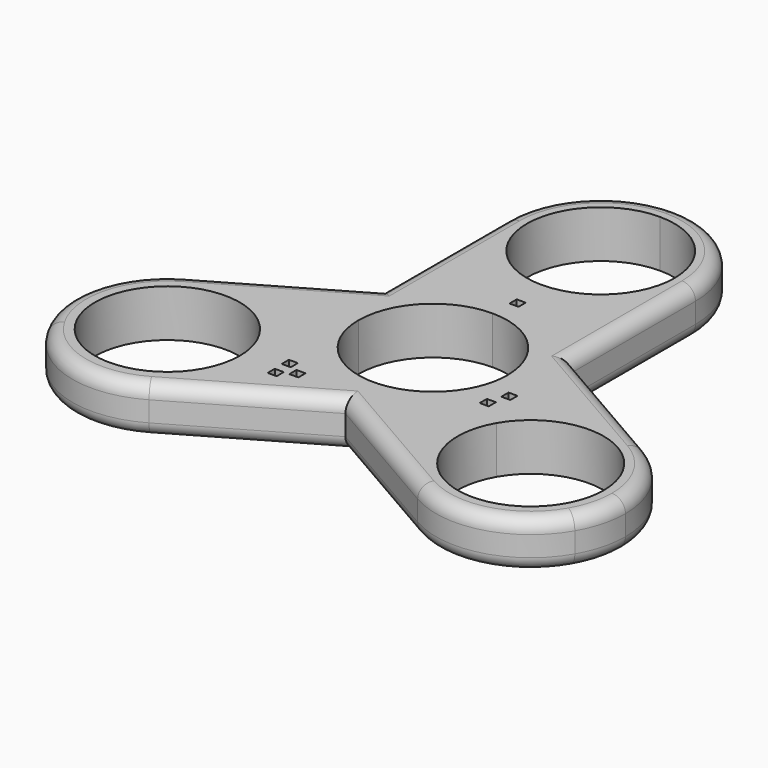
from build123d import *

# Parameters (mm, degrees)
F0_W     = 1.3256371551
F0_H     = 1.3256371551
F1_DEPTH = 7
F2_R     = 2


with BuildPart() as f1:
    # F0 (on Top) → F1 (new body)
    with BuildSketch(Plane.XY):
        with BuildLine():
            Line((0, 20.1), (0, 17))
            ThreePointArc((0, 17), (9.8994949366, 21.1005050634), (14, 31))
            ThreePointArc((14, 31), (9.8994949366, 40.8994949366), (0, 45))
            Line((0, 45), (0, 41.9))
            ThreePointArc((0, 41.9), (7.7074639149, 38.7074639149), (10.9, 31))
            ThreePointArc((10.9, 31), (7.7074639149, 23.2925360851), (0, 20.1))
        make_face()
        with BuildLine():
            ThreePointArc((-14, 31), (-9.8994949366, 21.1005050634), (0, 17))
            Line((0, 17), (0, 20.1))
            ThreePointArc((0, 20.1), (-10.9, 31), (0, 41.9))
            Line((0, 41.9), (0, 45))
            ThreePointArc((0, 45), (-9.8994949366, 40.8994949366), (-14, 31))
        make_face()
        with BuildLine():
            Line((0, 11), (0, 14.1517119482))
            Line((0, 14.1517119482), (0, 15.4773491033))
            Line((0, 15.4773491033), (0, 17))
            ThreePointArc((0, 17), (-9.8994949366, 21.1005050634), (-14, 31))
            Line((-14, 31), (-14, 8.0829037687))
            Line((-14, 8.0829037687), (-14, 0))
            Line((-14, 0), (-11, 0))
            ThreePointArc((-11, 0), (-7.7781745931, 7.7781745931), (0, 11))
        make_face()
        with BuildLine():
            Line((1.3256371551, 14.1517119482), (0, 14.1517119482))
            Line((0, 14.1517119482), (0, 11))
            ThreePointArc((0, 11), (7.7781745931, 7.7781745931), (11, 0))
            Line((11, 0), (14, 0))
            Line((14, 0), (14, 8.0829037687))
            Line((14, 8.0829037687), (14, 31))
            ThreePointArc((14, 31), (9.8994949366, 21.1005050634), (0, 17))
            Line((0, 17), (0, 15.4773491033))
            Line((0, 15.4773491033), (1.3256371551, 15.4773491033))
            Line((1.3256371551, 15.4773491033), (1.3256371551, 14.1517119482))
        make_face()
        with BuildLine():
            Line((14, 0), (11, 0))
            ThreePointArc((11, 0), (10.6251840892, -2.8470094961), (9.5262794416, -5.5))
            Line((9.5262794416, -5.5), (12.8533530208, -7.4208868265))
            Line((12.8533530208, -7.4208868265), (14.7224318643, -8.5))
            ThreePointArc((14.7224318643, -8.5), (23.2233210418, -1.9770383902), (33.8467877969, -3.3756445084))
            Line((33.8467877969, -3.3756445084), (14, 8.0829037687))
            Line((14, 8.0829037687), (14, 0))
        make_face()
        with Locations((13.5161715983, -6.758068249)):
            Rectangle(F0_W, F0_H, mode=Mode.SUBTRACT)
        with Locations((14.4693469893, -3.9606061499)):
            Rectangle(F0_W, F0_H, mode=Mode.SUBTRACT)
        with BuildLine():
            Line((12.8533530208, -7.4208868265), (9.5262794416, -5.5))
            ThreePointArc((9.5262794416, -5.5), (0, -11), (-9.5262794416, -5.5))
            Line((-9.5262794416, -5.5), (-14, -8.0829037687))
            Line((-14, -8.0829037687), (0, -16.1658075373))
            Line((0, -16.1658075373), (19.8467879874, -27.6243559244))
            ThreePointArc((19.8467879874, -27.6243559244), (13.3238260195, -19.1234668936), (14.7224318643, -8.5))
            Line((14.7224318643, -8.5), (12.8533530208, -7.4208868265))
        make_face()
        with BuildLine():
            ThreePointArc((-9.5262794416, -5.5), (-10.6251840892, -2.8470094961), (-11, 0))
            Line((-11, 0), (-14, 0))
            Line((-14, 0), (-14, 8.0829037687))
            Line((-14, 8.0829037687), (-33.8467875831, -3.375644385))
            ThreePointArc((-33.8467875831, -3.375644385), (-23.2233209225, -1.9770384221), (-14.7224318643, -8.5))
            Line((-14.7224318643, -8.5), (-14, -8.0829037687))
            Line((-14, -8.0829037687), (-9.5262794416, -5.5))
        make_face()
        with BuildLine():
            Line((0, -16.1658075373), (-14, -8.0829037687))
            Line((-14, -8.0829037687), (-14.7224318643, -8.5))
            ThreePointArc((-14.7224318643, -8.5), (-13.3238259493, -11.8765333686), (-12.8467875173, -15.5))
            ThreePointArc((-12.8467875173, -15.5), (-14.7224317836, -22.4999998602), (-19.8467872378, -27.6243554916))
            Line((-19.8467872378, -27.6243554916), (0, -16.1658075373))
        make_face()
        with Locations((-10.3011047203, -16.1628185775)):
            Rectangle(F0_W, F0_H, mode=Mode.SUBTRACT)
        with Locations((-8.161916424, -14.8371814225)):
            Rectangle(F0_W, F0_H, mode=Mode.SUBTRACT)
        with Locations((-10.4326661411, -13.3934514332)):
            Rectangle(F0_W, F0_H, mode=Mode.SUBTRACT)
        with BuildLine():
            ThreePointArc((-12.8467875173, -15.5), (-13.3238259493, -11.8765333686), (-14.7224318643, -8.5))
            Line((-14.7224318643, -8.5), (-17.5803156968, -10.15))
            ThreePointArc((-17.5803156968, -10.15), (-16.511381176, -12.7306362174), (-16.1467875173, -15.5))
            ThreePointArc((-16.1467875173, -15.5), (-24.0774237347, -25.8354063413), (-36.1132593378, -20.85))
            Line((-36.1132593378, -20.85), (-38.9711431703, -22.5))
            ThreePointArc((-38.9711431703, -22.5), (-30.4702539929, -29.0229616098), (-19.8467872378, -27.6243554916))
            ThreePointArc((-19.8467872378, -27.6243554916), (-14.7224317836, -22.4999998602), (-12.8467875173, -15.5))
        make_face()
        with BuildLine():
            ThreePointArc((-14.7224318643, -8.5), (-23.2233209225, -1.9770384221), (-33.8467875831, -3.375644385))
            ThreePointArc((-33.8467875831, -3.375644385), (-40.3697490952, -11.8765334052), (-38.9711431703, -22.5))
            Line((-38.9711431703, -22.5), (-36.1132593378, -20.85))
            ThreePointArc((-36.1132593378, -20.85), (-32.1967875173, -6.2335281795), (-17.5803156968, -10.15))
            Line((-17.5803156968, -10.15), (-14.7224318643, -8.5))
        make_face()
        with BuildLine():
            ThreePointArc((40.8467875173, -15.5), (38.971143251, -8.5000001398), (33.8467877969, -3.3756445084))
            ThreePointArc((33.8467877969, -3.3756445084), (23.2233210418, -1.9770383902), (14.7224318643, -8.5))
            Line((14.7224318643, -8.5), (17.4937131564, -10.1))
            ThreePointArc((17.4937131564, -10.1), (29.6420332044, -5.0680010761), (37.6467875173, -15.5))
            ThreePointArc((37.6467875173, -15.5), (37.2787864412, -18.2952456871), (36.1998618782, -20.9))
            Line((36.1998618782, -20.9), (38.9711431703, -22.5))
            ThreePointArc((38.9711431703, -22.5), (40.3697490854, -19.1234666314), (40.8467875173, -15.5))
        make_face()
        with BuildLine():
            Line((17.4937131564, -10.1), (14.7224318643, -8.5))
            ThreePointArc((14.7224318643, -8.5), (13.3238260195, -19.1234668936), (19.8467879874, -27.6243559244))
            ThreePointArc((19.8467879874, -27.6243559244), (30.4702544109, -29.0229614978), (38.9711431703, -22.5))
            Line((38.9711431703, -22.5), (36.1998618782, -20.9))
            ThreePointArc((36.1998618782, -20.9), (21.4467875173, -24.8530743609), (17.4937131564, -10.1))
        make_face()
    extrude(amount=F1_DEPTH)

    # F2
    f2_edges = [f1.edges().sort_by_distance(p)[0] for p in [
        (-14, 19.541452, 7),
        (0, 45, 7),
        (-23.923394, 2.35363, 7),
        (-38.971143, -22.5, 7),
        (-9.923394, -21.895082, 7),
        (9.923394, -21.895082, 7),
        (38.971143, -22.5, 7),
        (23.923394, 2.35363, 7),
        (14, 19.541452, 7),
        (-9.923394, -21.895082, 0),
        (-38.971143, -22.5, 0),
        (9.923394, -21.895082, 0),
        (38.971143, -22.5, 0),
        (23.923394, 2.35363, 0),
        (14, 19.541452, 0),
        (0, 45, 0),
    ]]
    fillet(f2_edges, radius=F2_R)


solid = f1.part
